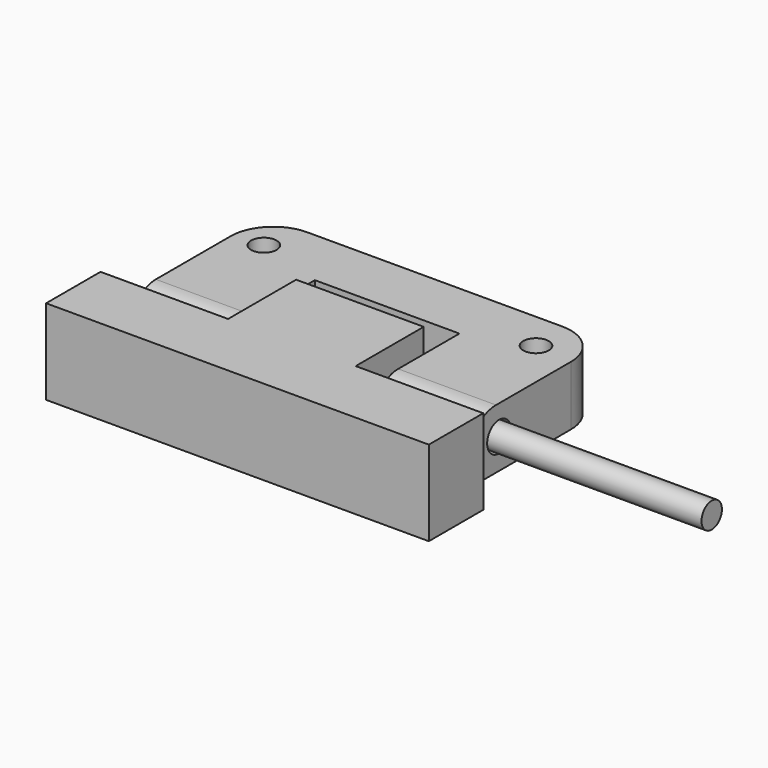
from build123d import *

# Parameters (mm, degrees)
F1_DEPTH = 10
F0_R     = 1.5
F2_DEPTH = 8
F3_R     = 1.75
F4_DEPTH = 50
F5_R     = 1.5
F6_DEPTH = 25
F7_DEPTH = 1
F8_R     = 4
F9_R     = 5


with BuildPart() as f1:
    # F0 (on Top) → F1 (new body)
    with BuildSketch(Plane.XY):
        Polygon((15, 0), (0, 0), (0, -10), (-15, -10), (-15, -18), (30, -18), (30, -10), (15, -10), align=None)
    extrude(amount=F1_DEPTH)


with BuildPart() as f2:
    # F0 (on Top) → F2 (new body)
    with BuildSketch(Plane.XY):
        Polygon((-12.5, 11), (-12.5, -9), (-1, -9), (-1, 4), (16, 4), (16, -9), (27.5, -9), (27.5, 11), align=None)
        with Locations((-9, 6.5)):
            Circle(F0_R, mode=Mode.SUBTRACT)
        with Locations((23, 6.5)):
            Circle(F0_R, mode=Mode.SUBTRACT)
    extrude(amount=F2_DEPTH)


with BuildPart() as f4_tool:
    # F3 (on face) → F4 (new body, symmetric)
    with BuildSketch(Plane(origin=(0, 0, 0), x_dir=(0, -1, 0), z_dir=(-1, 0, 0))):
        with Locations((4.55, 4.55)):
            Circle(F3_R)
    extrude(amount=F4_DEPTH, both=True)


with BuildPart() as f1_1:
    add(f1.part)

    # F4: cut by f4_tool
    add(f4_tool.part, mode=Mode.SUBTRACT)


with BuildPart() as f2_1:
    add(f2.part)

    # F4: cut by f4_tool
    add(f4_tool.part, mode=Mode.SUBTRACT)

    # F0 (on Top) → F7 (cut)
    with BuildSketch(Plane.XY):
        Polygon((-12.5, 11), (-12.5, -9), (-1, -9), (-1, 4), (16, 4), (16, -9), (27.5, -9), (27.5, 11), align=None)
        with Locations((-9, 6.5)):
            Circle(F0_R, mode=Mode.SUBTRACT)
        with Locations((23, 6.5)):
            Circle(F0_R, mode=Mode.SUBTRACT)
    extrude(amount=F7_DEPTH, mode=Mode.SUBTRACT)

    # F8
    f8_edges = [f2_1.edges().sort_by_distance(p)[0] for p in [
        (21.75, -9, 8),
        (-6.75, -9, 8),
    ]]
    fillet(f8_edges, radius=F8_R)

    # F9
    f9_edges = [f2_1.edges().sort_by_distance(p)[0] for p in [
        (27.5, 11, 4.5),
        (-12.5, 11, 4.5),
    ]]
    fillet(f9_edges, radius=F9_R)


with BuildPart() as f6:
    # F5 (on face) → F6 (new body, symmetric)
    with BuildSketch(Plane.YZ.offset(27.5)):
        with Locations((-4.55, 4.55)):
            Circle(F5_R)
    extrude(amount=F6_DEPTH, both=True)


solid = Compound([f1_1.part, f2_1.part, f6.part])
